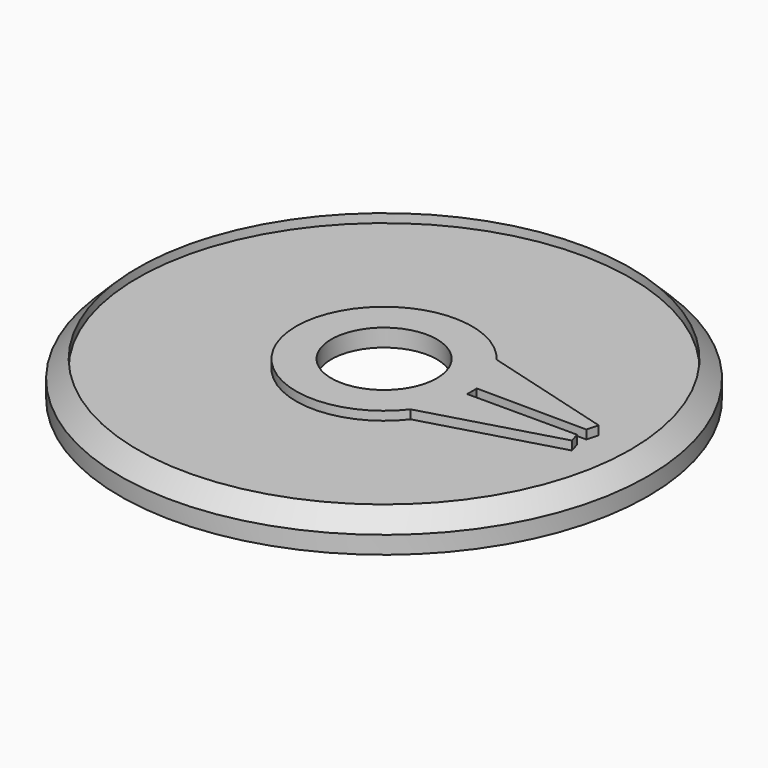
from build123d import *

# Parameters (mm, degrees)
F0_R      = 15
F1_DEPTH  = 2
F2_R      = 14
F3_DEPTH  = 1
F4_SIZE   = 1
F5_R      = 4
F6_DEPTH  = 25
F8_R      = 14
F9_DEPTH  = 0.5
F10_R     = 4
F10_R_2   = 3
F11_DEPTH = 1
F12_R     = 9
F12_R_2   = 8
F13_DEPTH = 1


with BuildPart() as f1:
    # F0 (on Top) → F1 (new body)
    with BuildSketch(Plane.XY):
        Circle(F0_R)
    extrude(amount=F1_DEPTH)

    # F2 (on face) → F3 (cut)
    with BuildSketch(Plane(origin=(0, 0, 0), x_dir=(1, 0, 0), z_dir=(0, 0, -1))):
        Circle(F2_R)
    extrude(amount=-F3_DEPTH, mode=Mode.SUBTRACT)

    # F4
    f4_edges = [f1.edges().sort_by_distance(p)[0] for p in [
        (-15, 0, 2),
    ]]
    chamfer(f4_edges, length=F4_SIZE)

    # F5 (on face) → F6 (cut)
    with BuildSketch(Plane.XY.offset(2)):
        Circle(F5_R)
    extrude(amount=-F6_DEPTH, mode=Mode.SUBTRACT)

    # F8 (on face) → F9 (cut)
    with BuildSketch(Plane.XY.offset(2)):
        Circle(F8_R)
        with BuildLine():
            ThreePointArc((4.9880774736, 0.3450842174), (4.9970184795, 0.1726450576), (5, 0))
            ThreePointArc((5, 0), (4.9970184795, -0.1726450576), (4.9880774736, -0.3450842174))
            Line((4.9880774736, -0.3450842174), (11.2447906452, -0.3450842174))
            Line((11.2447906452, -0.3450842174), (11.4114703611, -0.9285551496))
            Line((11.4114703611, -0.9285551496), (3.955437905, -3.0585145054))
            ThreePointArc((3.955437905, -3.0585145054), (-4.9999982746, 0.00415382), (3.9605142509, 3.0519382151))
            Line((3.9605142509, 3.0519382151), (11.4327203482, 0.956684351))
            Line((11.4327203482, 0.956684351), (11.2488549203, 0.3009736538))
            Line((11.2488549203, 0.3009736538), (4.9880774736, 0.3450842174))
        make_face(mode=Mode.SUBTRACT)
    extrude(amount=-F9_DEPTH, mode=Mode.SUBTRACT)

    # F10 (on face) → F11 (join)
    with BuildSketch(Plane.XY.offset(2)):
        Circle(F10_R)
        Circle(F10_R_2, mode=Mode.SUBTRACT)
    extrude(amount=-F11_DEPTH)

    # F12 (on face) → F13 (join)
    with BuildSketch(Plane(origin=(0, 0, 1), x_dir=(1, 0, 0), z_dir=(0, 0, -1))):
        Circle(F12_R)
        Circle(F12_R_2, mode=Mode.SUBTRACT)
    extrude(amount=F13_DEPTH)


solid = f1.part
